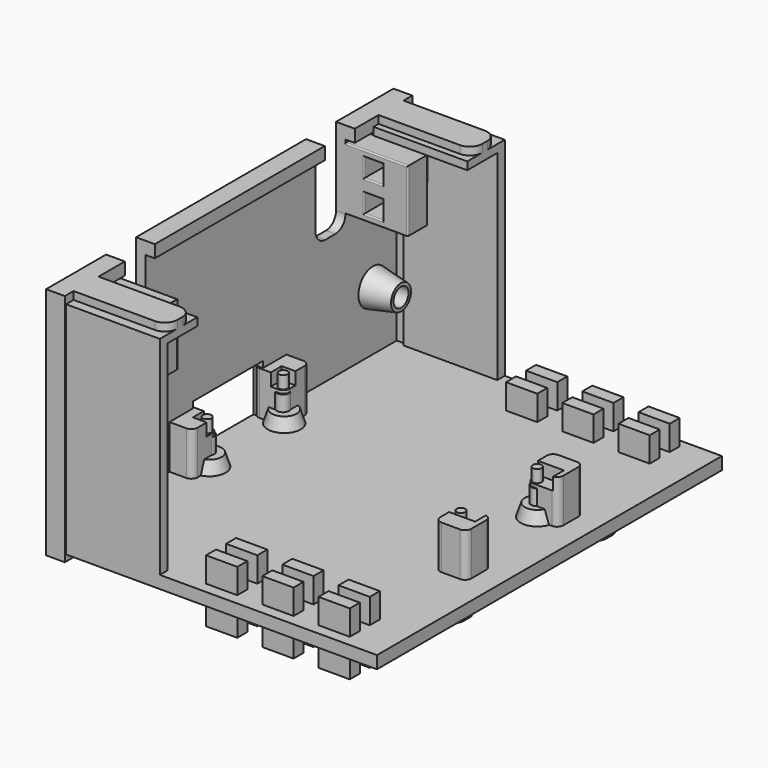
from build123d import *

# Parameters (mm, degrees)
BOX019_W               = 10
BOX019_H               = 5.45
BOX019_DEPTH           = 5
BOX019_PLACEMENT_ANGLE = 30
BOX018_W               = 5.45
BOX018_H               = 10
BOX018_DEPTH           = 5
BOX018_PLACEMENT_ANGLE = 120
BOX017_W               = 5.45
BOX017_H               = 10
BOX017_DEPTH           = 5
CYLINDER007_R          = 1
CYLINDER007_DEPTH      = 10
BOX022_W               = 10
BOX022_H               = 5.45
BOX022_DEPTH           = 5
BOX022_PLACEMENT_ANGLE = 30
BOX021_W               = 5.45
BOX021_H               = 10
BOX021_DEPTH           = 5
BOX021_PLACEMENT_ANGLE = 120
BOX020_W               = 5.45
BOX020_H               = 10
BOX020_DEPTH           = 5
CYLINDER008_R          = 1
CYLINDER008_DEPTH      = 10
BOX025_W               = 10
BOX025_H               = 5.45
BOX025_DEPTH           = 5
BOX025_PLACEMENT_ANGLE = 30
BOX024_W               = 5.45
BOX024_H               = 10
BOX024_DEPTH           = 5
BOX024_PLACEMENT_ANGLE = 120
BOX023_W               = 5.45
BOX023_H               = 10
BOX023_DEPTH           = 5
CYLINDER009_R          = 1
CYLINDER009_DEPTH      = 10
BOX016_W               = 10
BOX016_H               = 5.45
BOX016_DEPTH           = 5
BOX016_PLACEMENT_ANGLE = 30
BOX015_W               = 5.45
BOX015_H               = 10
BOX015_DEPTH           = 5
BOX015_PLACEMENT_ANGLE = 120
BOX014_W               = 5.45
BOX014_H               = 10
BOX014_DEPTH           = 5
CYLINDER006_R          = 1
CYLINDER006_DEPTH      = 10
BOX042_W               = 5
BOX042_H               = 2
BOX042_DEPTH           = 10
BOX043_W               = 5
BOX043_H               = 2
BOX043_DEPTH           = 10
BOX041_W               = 5
BOX041_H               = 2
BOX041_DEPTH           = 10
BOX045_W               = 5
BOX045_H               = 2
BOX045_DEPTH           = 10
BOX046_W               = 5
BOX046_H               = 2
BOX046_DEPTH           = 10
BOX044_W               = 5
BOX044_H               = 2
BOX044_DEPTH           = 10
BOX048_W               = 5
BOX048_H               = 2
BOX048_DEPTH           = 10
BOX049_W               = 5
BOX049_H               = 2
BOX049_DEPTH           = 10
BOX047_W               = 5
BOX047_H               = 2
BOX047_DEPTH           = 10
BOX039_W               = 5
BOX039_H               = 2
BOX039_DEPTH           = 10
BOX040_W               = 5
BOX040_H               = 2
BOX040_DEPTH           = 10
BOX038_W               = 5
BOX038_H               = 2
BOX038_DEPTH           = 10
BOX062_W               = 15
BOX062_H               = 7.5
BOX062_DEPTH           = 34
BOX063_W               = 15
BOX063_H               = 7.5
BOX063_DEPTH           = 34
BOX060_W               = 15
BOX060_H               = 7.5
BOX060_DEPTH           = 34.75
BOX061_W               = 15
BOX061_H               = 7.5
BOX061_DEPTH           = 34.75
BOX065_W               = 10
BOX065_H               = 6
BOX065_DEPTH           = 15
FILLET029_R            = 2
BOX064_W               = 10
BOX064_H               = 6
BOX064_DEPTH           = 15
FILLET028_R            = 2
BOX067_W               = 5
BOX067_H               = 5
BOX067_DEPTH           = 1.5
BOX068_W               = 5
BOX068_H               = 5
BOX068_DEPTH           = 1.5
BOX069_W               = 5
BOX069_H               = 5
BOX069_DEPTH           = 1.5
BOX070_W               = 5
BOX070_H               = 5
BOX070_DEPTH           = 1.5
BOX071_W               = 5
BOX071_H               = 5
BOX071_DEPTH           = 1.5
BOX066_W               = 5
BOX066_H               = 5
BOX066_DEPTH           = 1.5
BOX029_W               = 49
BOX029_H               = 5
BOX029_DEPTH           = 2
FILLET014_R            = 2
FILLET016_R            = 0.25
BOX030_W               = 49
BOX030_H               = 5
BOX030_DEPTH           = 2
FILLET017_R            = 2
FILLET018_R            = 0.25
BOX031_W               = 15
BOX031_H               = 5
BOX031_DEPTH           = 2
FILLET019_R            = 2
FILLET020_R            = 0.25
BOX028_W               = 15
BOX028_H               = 5
BOX028_DEPTH           = 2
FILLET_R               = 2
FILLET015_R            = 0.25
BOX027_W               = 10
BOX027_H               = 6
BOX027_DEPTH           = 15
FILLET013_R            = 2
BOX026_W               = 10
BOX026_H               = 6
BOX026_DEPTH           = 15
FILLET012_R            = 2
BOX005_W               = 15
BOX005_H               = 7.5
BOX005_DEPTH           = 34
BOX006_W               = 15
BOX006_H               = 7.5
BOX006_DEPTH           = 34
BOX003_W               = 15
BOX003_H               = 7.5
BOX003_DEPTH           = 34.75
BOX004_W               = 15
BOX004_H               = 7.5
BOX004_DEPTH           = 34.75
BOX051_W               = 5
BOX051_H               = 5
BOX051_DEPTH           = 1.5
BOX052_W               = 5
BOX052_H               = 5
BOX052_DEPTH           = 1.5
BOX053_W               = 5
BOX053_H               = 5
BOX053_DEPTH           = 1.5
BOX054_W               = 5
BOX054_H               = 5
BOX054_DEPTH           = 1.5
BOX055_W               = 5
BOX055_H               = 5
BOX055_DEPTH           = 1.5
BOX050_W               = 5
BOX050_H               = 5
BOX050_DEPTH           = 1.5
BOX037_W               = 3
BOX037_H               = 10
BOX037_DEPTH           = 3
BOX036_W               = 3
BOX036_H               = 10
BOX036_DEPTH           = 3
BOX035_W               = 10
BOX035_H               = 4
BOX035_DEPTH           = 10
FILLET023_R            = 0.2
BOX034_W               = 3
BOX034_H               = 10
BOX034_DEPTH           = 3
BOX033_W               = 3
BOX033_H               = 10
BOX033_DEPTH           = 3
BOX032_W               = 10
BOX032_H               = 4
BOX032_DEPTH           = 10
FILLET022_R            = 0.2
CYLINDER001_R          = 0.7
CYLINDER001_DEPTH      = 10
CYLINDER002_R          = 0.7
CYLINDER002_DEPTH      = 10
CYLINDER003_R          = 0.7
CYLINDER003_DEPTH      = 10
CYLINDER_R             = 0.7
CYLINDER_DEPTH         = 10
BOX_W                  = 45.16
BOX_H                  = 17.76
BOX_DEPTH              = 10
BOX057_W               = 5
BOX057_H               = 5
BOX057_DEPTH           = 7
FILLET025_R            = 1
BOX058_W               = 5
BOX058_H               = 5
BOX058_DEPTH           = 7
FILLET026_R            = 1
BOX059_W               = 5
BOX059_H               = 5
BOX059_DEPTH           = 7
FILLET027_R            = 1
BOX056_W               = 5
BOX056_H               = 5
BOX056_DEPTH           = 7
FILLET024_R            = 1
BOX002_W               = 50
BOX002_H               = 69
BOX002_DEPTH           = 2
BOX008_W               = 10
BOX008_H               = 14
BOX008_DEPTH           = 8
CYLINDER005_R          = 1.5
CYLINDER005_DEPTH      = 10
CYLINDER004_R          = 1.5
CYLINDER004_DEPTH      = 10
BOX007_W               = 3.5
BOX007_H               = 66.5
BOX007_DEPTH           = 32.5
BOX001_W               = 3
BOX001_H               = 69.5
BOX001_DEPTH           = 37.5


with BuildPart() as cone002:
    # Cone002 → Cone002 (revolve)
    with BuildSketch(Plane(origin=(42, 27, 2), x_dir=(1, 0, 0), z_dir=(0, -1, 0))):
        Polygon((0, 0), (3, 0), (2, 3), (0, 3), align=None)
    revolve(axis=Axis((42, 27, 2), (0, 0, 1)))


with BuildPart() as cone003:
    # Cone003 → Cone003 (revolve)
    with BuildSketch(Plane(origin=(42, 42, 2), x_dir=(1, 0, 0), z_dir=(0, -1, 0))):
        Polygon((0, 0), (3, 0), (2, 3), (0, 3), align=None)
    revolve(axis=Axis((42, 42, 2), (0, 0, 1)))


with BuildPart() as cone004:
    # Cone004 → Cone004 (revolve)
    with BuildSketch(Plane(origin=(1.5, 42, 2), x_dir=(1, 0, 0), z_dir=(0, -1, 0))):
        Polygon((0, 0), (3, 0), (2, 3), (0, 3), align=None)
    revolve(axis=Axis((1.5, 42, 2), (0, 0, 1)))


with BuildPart() as cone005:
    # Cone005 → Cone005 (revolve)
    with BuildSketch(Plane(origin=(1.5, 27, 2), x_dir=(1, 0, 0), z_dir=(0, -1, 0))):
        Polygon((0, 0), (3, 0), (2, 3), (0, 3), align=None)
    revolve(axis=Axis((1.5, 27, 2), (0, 0, 1)))


with BuildPart() as cube019:
    # Box019 → Box019 (new body)
    with BuildSketch(Plane.XY):
        with Locations((5, 2.725)):
            Rectangle(BOX019_W, BOX019_H)
    extrude(amount=BOX019_DEPTH)


with BuildPart() as cube019_1:
    # Box019 placement: moved
    add(cube019.part.moved(Location((0.55, 4, 0))).rotate(Axis((0.55, 4, 0), (0, 0, -1)), BOX019_PLACEMENT_ANGLE))


with BuildPart() as cube018:
    # Box018 → Box018 (new body)
    with BuildSketch(Plane.XY):
        with Locations((2.725, 5)):
            Rectangle(BOX018_W, BOX018_H)
    extrude(amount=BOX018_DEPTH)


with BuildPart() as cube018_1:
    # Box018 placement: moved
    add(cube018.part.moved(Location((11.5, 4, 0))).rotate(Axis((11.5, 4, 0), (0, 0, 1)), BOX018_PLACEMENT_ANGLE))


with BuildPart() as m_25_nut001:
    # Box017 → Box017 (new body)
    with BuildSketch(Plane(origin=(3.25, 0, 0), x_dir=(1, 0, 0), z_dir=(0, 0, 1))):
        with Locations((2.725, 5)):
            Rectangle(BOX017_W, BOX017_H)
    extrude(amount=BOX017_DEPTH)

    # Common001: intersect Cube019, Cube018
    add(cube019_1.part, mode=Mode.INTERSECT)
    add(cube018_1.part, mode=Mode.INTERSECT)


with BuildPart() as m_25_nut001_1:
    # Common001 placement: moved
    add(m_25_nut001.part.moved(Location((-2, 0, -1))))


with BuildPart() as screw_hole001:
    # Cylinder007 → Cylinder007 (new body)
    with BuildSketch(Plane(origin=(4, 4, -1), x_dir=(1, 0, 0), z_dir=(0, 0, 1))):
        Circle(CYLINDER007_R)
    extrude(amount=CYLINDER007_DEPTH)

    # Fusion009: union M.25 nut001
    add(m_25_nut001_1.part)


with BuildPart() as screw_hole001_1:
    # Fusion009 placement: moved
    add(screw_hole001.part.moved(Location((-2.7, 38, 0))))


with BuildPart() as cube022:
    # Box022 → Box022 (new body)
    with BuildSketch(Plane.XY):
        with Locations((5, 2.725)):
            Rectangle(BOX022_W, BOX022_H)
    extrude(amount=BOX022_DEPTH)


with BuildPart() as cube022_1:
    # Box022 placement: moved
    add(cube022.part.moved(Location((0.55, 4, 0))).rotate(Axis((0.55, 4, 0), (0, 0, -1)), BOX022_PLACEMENT_ANGLE))


with BuildPart() as cube021:
    # Box021 → Box021 (new body)
    with BuildSketch(Plane.XY):
        with Locations((2.725, 5)):
            Rectangle(BOX021_W, BOX021_H)
    extrude(amount=BOX021_DEPTH)


with BuildPart() as cube021_1:
    # Box021 placement: moved
    add(cube021.part.moved(Location((11.5, 4, 0))).rotate(Axis((11.5, 4, 0), (0, 0, 1)), BOX021_PLACEMENT_ANGLE))


with BuildPart() as m_25_nut002:
    # Box020 → Box020 (new body)
    with BuildSketch(Plane(origin=(3.25, 0, 0), x_dir=(1, 0, 0), z_dir=(0, 0, 1))):
        with Locations((2.725, 5)):
            Rectangle(BOX020_W, BOX020_H)
    extrude(amount=BOX020_DEPTH)

    # Common002: intersect Cube022, Cube021
    add(cube022_1.part, mode=Mode.INTERSECT)
    add(cube021_1.part, mode=Mode.INTERSECT)


with BuildPart() as m_25_nut002_1:
    # Common002 placement: moved
    add(m_25_nut002.part.moved(Location((-2, 0, -1))))


with BuildPart() as screw_hole002:
    # Cylinder008 → Cylinder008 (new body)
    with BuildSketch(Plane(origin=(4, 4, -1), x_dir=(1, 0, 0), z_dir=(0, 0, 1))):
        Circle(CYLINDER008_R)
    extrude(amount=CYLINDER008_DEPTH)

    # Fusion010: union M.25 nut002
    add(m_25_nut002_1.part)


with BuildPart() as screw_hole002_1:
    # Fusion010 placement: moved
    add(screw_hole002.part.moved(Location((38, 23, 0))))


with BuildPart() as cube025:
    # Box025 → Box025 (new body)
    with BuildSketch(Plane.XY):
        with Locations((5, 2.725)):
            Rectangle(BOX025_W, BOX025_H)
    extrude(amount=BOX025_DEPTH)


with BuildPart() as cube025_1:
    # Box025 placement: moved
    add(cube025.part.moved(Location((0.55, 4, 0))).rotate(Axis((0.55, 4, 0), (0, 0, -1)), BOX025_PLACEMENT_ANGLE))


with BuildPart() as cube024:
    # Box024 → Box024 (new body)
    with BuildSketch(Plane.XY):
        with Locations((2.725, 5)):
            Rectangle(BOX024_W, BOX024_H)
    extrude(amount=BOX024_DEPTH)


with BuildPart() as cube024_1:
    # Box024 placement: moved
    add(cube024.part.moved(Location((11.5, 4, 0))).rotate(Axis((11.5, 4, 0), (0, 0, 1)), BOX024_PLACEMENT_ANGLE))


with BuildPart() as m_25_nut003:
    # Box023 → Box023 (new body)
    with BuildSketch(Plane(origin=(3.25, 0, 0), x_dir=(1, 0, 0), z_dir=(0, 0, 1))):
        with Locations((2.725, 5)):
            Rectangle(BOX023_W, BOX023_H)
    extrude(amount=BOX023_DEPTH)

    # Common003: intersect Cube025, Cube024
    add(cube025_1.part, mode=Mode.INTERSECT)
    add(cube024_1.part, mode=Mode.INTERSECT)


with BuildPart() as m_25_nut003_1:
    # Common003 placement: moved
    add(m_25_nut003.part.moved(Location((-2, 0, -1))))


with BuildPart() as screw_hole003:
    # Cylinder009 → Cylinder009 (new body)
    with BuildSketch(Plane(origin=(4, 4, -1), x_dir=(1, 0, 0), z_dir=(0, 0, 1))):
        Circle(CYLINDER009_R)
    extrude(amount=CYLINDER009_DEPTH)

    # Fusion011: union M.25 nut003
    add(m_25_nut003_1.part)


with BuildPart() as screw_hole003_1:
    # Fusion011 placement: moved
    add(screw_hole003.part.moved(Location((38, 38, 0))))


with BuildPart() as cube016:
    # Box016 → Box016 (new body)
    with BuildSketch(Plane.XY):
        with Locations((5, 2.725)):
            Rectangle(BOX016_W, BOX016_H)
    extrude(amount=BOX016_DEPTH)


with BuildPart() as cube016_1:
    # Box016 placement: moved
    add(cube016.part.moved(Location((0.55, 4, 0))).rotate(Axis((0.55, 4, 0), (0, 0, -1)), BOX016_PLACEMENT_ANGLE))


with BuildPart() as cube015:
    # Box015 → Box015 (new body)
    with BuildSketch(Plane.XY):
        with Locations((2.725, 5)):
            Rectangle(BOX015_W, BOX015_H)
    extrude(amount=BOX015_DEPTH)


with BuildPart() as cube015_1:
    # Box015 placement: moved
    add(cube015.part.moved(Location((11.5, 4, 0))).rotate(Axis((11.5, 4, 0), (0, 0, 1)), BOX015_PLACEMENT_ANGLE))


with BuildPart() as m_25_nut:
    # Box014 → Box014 (new body)
    with BuildSketch(Plane(origin=(3.25, 0, 0), x_dir=(1, 0, 0), z_dir=(0, 0, 1))):
        with Locations((2.725, 5)):
            Rectangle(BOX014_W, BOX014_H)
    extrude(amount=BOX014_DEPTH)

    # Common: intersect Cube016, Cube015
    add(cube016_1.part, mode=Mode.INTERSECT)
    add(cube015_1.part, mode=Mode.INTERSECT)


with BuildPart() as m_25_nut_1:
    # Common placement: moved
    add(m_25_nut.part.moved(Location((-2, 0, -1))))


with BuildPart() as screw_holes_cut:
    # Cylinder006 → Cylinder006 (new body)
    with BuildSketch(Plane(origin=(4, 4, -1), x_dir=(1, 0, 0), z_dir=(0, 0, 1))):
        Circle(CYLINDER006_R)
    extrude(amount=CYLINDER006_DEPTH)

    # Fusion008: union M.25 nut
    add(m_25_nut_1.part)


with BuildPart() as screw_holes_cut_1:
    # Fusion008 placement: moved
    add(screw_holes_cut.part.moved(Location((-2.7, 23, 0))))

    # Fusion012: union screw_hole001, screw_hole002, screw_hole003
    add(screw_hole001_1.part)
    add(screw_hole002_1.part)
    add(screw_hole003_1.part)


with BuildPart() as screw_holes_cut_2:
    # Fusion012 placement: moved
    add(screw_holes_cut_1.part.moved(Location((0, 0, -1.5))))


with BuildPart() as cube042:
    # Box042 → Box042 (new body)
    with BuildSketch(Plane(origin=(30, 2, -3), x_dir=(1, 0, 0), z_dir=(0, 0, 1))):
        with Locations((2.5, 1)):
            Rectangle(BOX042_W, BOX042_H)
    extrude(amount=BOX042_DEPTH)


with BuildPart() as cube043:
    # Box043 → Box043 (new body)
    with BuildSketch(Plane(origin=(39, 2, -3), x_dir=(1, 0, 0), z_dir=(0, 0, 1))):
        with Locations((2.5, 1)):
            Rectangle(BOX043_W, BOX043_H)
    extrude(amount=BOX043_DEPTH)


with BuildPart() as zip_ties_holes_board_l:
    # Box041 → Box041 (new body)
    with BuildSketch(Plane(origin=(21, 2, -3), x_dir=(1, 0, 0), z_dir=(0, 0, 1))):
        with Locations((2.5, 1)):
            Rectangle(BOX041_W, BOX041_H)
    extrude(amount=BOX041_DEPTH)

    # Fusion023: union Cube042, Cube043
    add(cube042.part)
    add(cube043.part)


with BuildPart() as zip_ties_holes_board_l_1:
    # Fusion023 placement: moved
    add(zip_ties_holes_board_l.part.moved(Location((0, 64, 0))))


with BuildPart() as cube045:
    # Box045 → Box045 (new body)
    with BuildSketch(Plane(origin=(30, 2, -3), x_dir=(1, 0, 0), z_dir=(0, 0, 1))):
        with Locations((2.5, 1)):
            Rectangle(BOX045_W, BOX045_H)
    extrude(amount=BOX045_DEPTH)


with BuildPart() as cube046:
    # Box046 → Box046 (new body)
    with BuildSketch(Plane(origin=(39, 2, -3), x_dir=(1, 0, 0), z_dir=(0, 0, 1))):
        with Locations((2.5, 1)):
            Rectangle(BOX046_W, BOX046_H)
    extrude(amount=BOX046_DEPTH)


with BuildPart() as zip_ties_holes_board_r001:
    # Box044 → Box044 (new body)
    with BuildSketch(Plane(origin=(21, 2, -3), x_dir=(1, 0, 0), z_dir=(0, 0, 1))):
        with Locations((2.5, 1)):
            Rectangle(BOX044_W, BOX044_H)
    extrude(amount=BOX044_DEPTH)

    # Fusion024: union Cube045, Cube046
    add(cube045.part)
    add(cube046.part)


with BuildPart() as zip_ties_holes_board_r001_1:
    # Fusion024 placement: moved
    add(zip_ties_holes_board_r001.part.moved(Location((0, 4, 0))))


with BuildPart() as cube048:
    # Box048 → Box048 (new body)
    with BuildSketch(Plane(origin=(30, 2, -3), x_dir=(1, 0, 0), z_dir=(0, 0, 1))):
        with Locations((2.5, 1)):
            Rectangle(BOX048_W, BOX048_H)
    extrude(amount=BOX048_DEPTH)


with BuildPart() as cube049:
    # Box049 → Box049 (new body)
    with BuildSketch(Plane(origin=(39, 2, -3), x_dir=(1, 0, 0), z_dir=(0, 0, 1))):
        with Locations((2.5, 1)):
            Rectangle(BOX049_W, BOX049_H)
    extrude(amount=BOX049_DEPTH)


with BuildPart() as zip_ties_holes_board_l001:
    # Box047 → Box047 (new body)
    with BuildSketch(Plane(origin=(21, 2, -3), x_dir=(1, 0, 0), z_dir=(0, 0, 1))):
        with Locations((2.5, 1)):
            Rectangle(BOX047_W, BOX047_H)
    extrude(amount=BOX047_DEPTH)

    # Fusion025: union Cube048, Cube049
    add(cube048.part)
    add(cube049.part)


with BuildPart() as zip_ties_holes_board_l001_1:
    # Fusion025 placement: moved
    add(zip_ties_holes_board_l001.part.moved(Location((0, 60, 0))))


with BuildPart() as cube039:
    # Box039 → Box039 (new body)
    with BuildSketch(Plane(origin=(30, 2, -3), x_dir=(1, 0, 0), z_dir=(0, 0, 1))):
        with Locations((2.5, 1)):
            Rectangle(BOX039_W, BOX039_H)
    extrude(amount=BOX039_DEPTH)


with BuildPart() as cube040:
    # Box040 → Box040 (new body)
    with BuildSketch(Plane(origin=(39, 2, -3), x_dir=(1, 0, 0), z_dir=(0, 0, 1))):
        with Locations((2.5, 1)):
            Rectangle(BOX040_W, BOX040_H)
    extrude(amount=BOX040_DEPTH)


with BuildPart() as zip_ties_holes:
    # Box038 → Box038 (new body)
    with BuildSketch(Plane(origin=(21, 2, -3), x_dir=(1, 0, 0), z_dir=(0, 0, 1))):
        with Locations((2.5, 1)):
            Rectangle(BOX038_W, BOX038_H)
    extrude(amount=BOX038_DEPTH)

    # Fusion022: union Cube039, Cube040
    add(cube039.part)
    add(cube040.part)

    # Fusion026: union zip ties holes board l, zip ties holes board r001, zip ties holes board l001
    add(zip_ties_holes_board_l_1.part)
    add(zip_ties_holes_board_r001_1.part)
    add(zip_ties_holes_board_l001_1.part)


with BuildPart() as cube062:
    # Box062 → Box062 (new body)
    with BuildSketch(Plane(origin=(0, 1.5, 1), x_dir=(1, 0, 0), z_dir=(0, 0, 1))):
        with Locations((7.5, 3.75)):
            Rectangle(BOX062_W, BOX062_H)
    extrude(amount=BOX062_DEPTH)


with BuildPart() as fusion030:
    # Box063 → Box063 (new body)
    with BuildSketch(Plane(origin=(0, 60.5, 1), x_dir=(1, 0, 0), z_dir=(0, 0, 1))):
        with Locations((7.5, 3.75)):
            Rectangle(BOX063_W, BOX063_H)
    extrude(amount=BOX063_DEPTH)

    # Fusion030: union Cube062
    add(cube062.part)


with BuildPart() as cube060:
    # Box060 → Box060 (new body)
    with BuildSketch(Plane.XY.offset(2)):
        with Locations((7.5, 3.75)):
            Rectangle(BOX060_W, BOX060_H)
    extrude(amount=BOX060_DEPTH)


with BuildPart() as cut012:
    # Box061 → Box061 (new body)
    with BuildSketch(Plane(origin=(0, 61.5, 2), x_dir=(1, 0, 0), z_dir=(0, 0, 1))):
        with Locations((7.5, 3.75)):
            Rectangle(BOX061_W, BOX061_H)
    extrude(amount=BOX061_DEPTH)

    # Fusion031: union Cube060
    add(cube060.part)


with BuildPart() as cut012_1:
    # Fusion031 placement: moved
    add(cut012.part.moved(Location((0, 0, -0.5))))

    # Cut012: cut Fusion030
    add(fusion030.part, mode=Mode.SUBTRACT)


with BuildPart() as cut012_2:
    # Cut012 placement: moved
    add(cut012_1.part.moved(Location((0, 0.25, 0))))


with BuildPart() as fillet029:
    # Box065 → Box065 (new body)
    with BuildSketch(Plane.XY.offset(16)):
        with Locations((5, 3)):
            Rectangle(BOX065_W, BOX065_H)
    extrude(amount=BOX065_DEPTH)

    # Fillet029
    fillet029_edges = [fillet029.edges().sort_by_distance(p)[0] for p in [
        (5, 0, 16),
        (5, 6, 16),
    ]]
    fillet(fillet029_edges, radius=FILLET029_R)


with BuildPart() as fillet029_1:
    # Fillet029 placement: moved
    add(fillet029.part.moved(Location((-4, 52, 7))))


with BuildPart() as cables_sockets001:
    # Box064 → Box064 (new body)
    with BuildSketch(Plane.XY.offset(16)):
        with Locations((5, 3)):
            Rectangle(BOX064_W, BOX064_H)
    extrude(amount=BOX064_DEPTH)

    # Fillet028
    fillet028_edges = [cables_sockets001.edges().sort_by_distance(p)[0] for p in [
        (5, 0, 16),
        (5, 6, 16),
    ]]
    fillet(fillet028_edges, radius=FILLET028_R)


with BuildPart() as cables_sockets001_1:
    # Fillet028 placement: moved
    add(cables_sockets001.part.moved(Location((-4, 12, 7))))

    # Fusion032: union Fillet029
    add(fillet029_1.part)


with BuildPart() as cube067:
    # Box067 → Box067 (new body)
    with BuildSketch(Plane(origin=(30, 3, 0), x_dir=(1, 0, 0), z_dir=(0, 0, 1))):
        with Locations((2.5, 2.5)):
            Rectangle(BOX067_W, BOX067_H)
    extrude(amount=BOX067_DEPTH)


with BuildPart() as cube068:
    # Box068 → Box068 (new body)
    with BuildSketch(Plane(origin=(39, 3, 0), x_dir=(1, 0, 0), z_dir=(0, 0, 1))):
        with Locations((2.5, 2.5)):
            Rectangle(BOX068_W, BOX068_H)
    extrude(amount=BOX068_DEPTH)


with BuildPart() as cube069:
    # Box069 → Box069 (new body)
    with BuildSketch(Plane(origin=(39, 63, 0), x_dir=(1, 0, 0), z_dir=(0, 0, 1))):
        with Locations((2.5, 2.5)):
            Rectangle(BOX069_W, BOX069_H)
    extrude(amount=BOX069_DEPTH)


with BuildPart() as cube070:
    # Box070 → Box070 (new body)
    with BuildSketch(Plane(origin=(30, 63, 0), x_dir=(1, 0, 0), z_dir=(0, 0, 1))):
        with Locations((2.5, 2.5)):
            Rectangle(BOX070_W, BOX070_H)
    extrude(amount=BOX070_DEPTH)


with BuildPart() as cube071:
    # Box071 → Box071 (new body)
    with BuildSketch(Plane(origin=(21, 63, 0), x_dir=(1, 0, 0), z_dir=(0, 0, 1))):
        with Locations((2.5, 2.5)):
            Rectangle(BOX071_W, BOX071_H)
    extrude(amount=BOX071_DEPTH)


with BuildPart() as fusion035:
    # Box066 → Box066 (new body)
    with BuildSketch(Plane(origin=(21, 3, 0), x_dir=(1, 0, 0), z_dir=(0, 0, 1))):
        with Locations((2.5, 2.5)):
            Rectangle(BOX066_W, BOX066_H)
    extrude(amount=BOX066_DEPTH)

    # Fusion034: union Cube067, Cube068, Cube069, Cube070, Cube071
    add(cube067.part)
    add(cube068.part)
    add(cube069.part)
    add(cube070.part)
    add(cube071.part)

    # Fusion035: union Cables sockets001
    add(cables_sockets001_1.part)


with BuildPart() as fillet016:
    # Box029 → Box029 (new body)
    with BuildSketch(Plane.XY):
        with Locations((24.5, 2.5)):
            Rectangle(BOX029_W, BOX029_H)
    extrude(amount=BOX029_DEPTH)

    # Fillet014
    fillet014_edges = [fillet016.edges().sort_by_distance(p)[0] for p in [
        (49, 0, 1),
        (49, 5, 1),
    ]]
    fillet(fillet014_edges, radius=FILLET014_R)


with BuildPart() as fillet016_1:
    # Fillet014 placement: moved
    add(fillet016.part.moved(Location((0, 45, 0))))

    # Fillet016
    fillet016_edges = [fillet016_1.edges().sort_by_distance(p)[0] for p in [
        (23.5, 50, 0),
        (23.5, 45, 0),
    ]]
    fillet(fillet016_edges, radius=FILLET016_R)


with BuildPart() as fillet016_2:
    # Fillet016 placement: moved
    add(fillet016_1.part.moved(Location((0, 0.25, 0))))


with BuildPart() as fillet018:
    # Box030 → Box030 (new body)
    with BuildSketch(Plane.XY):
        with Locations((24.5, 2.5)):
            Rectangle(BOX030_W, BOX030_H)
    extrude(amount=BOX030_DEPTH)

    # Fillet017
    fillet017_edges = [fillet018.edges().sort_by_distance(p)[0] for p in [
        (49, 0, 1),
        (49, 5, 1),
    ]]
    fillet(fillet017_edges, radius=FILLET017_R)


with BuildPart() as fillet018_1:
    # Fillet017 placement: moved
    add(fillet018.part.moved(Location((0, 17, 0))))

    # Fillet018
    fillet018_edges = [fillet018_1.edges().sort_by_distance(p)[0] for p in [
        (23.5, 22, 0),
        (23.5, 17, 0),
    ]]
    fillet(fillet018_edges, radius=FILLET018_R)


with BuildPart() as fillet018_2:
    # Fillet018 placement: moved
    add(fillet018_1.part.moved(Location((0, -0.25, 0))))


with BuildPart() as fillet020:
    # Box031 → Box031 (new body)
    with BuildSketch(Plane(origin=(0, -15.25, 0), x_dir=(1, 0, 0), z_dir=(0, 0, 1))):
        with Locations((7.5, 2.5)):
            Rectangle(BOX031_W, BOX031_H)
    extrude(amount=BOX031_DEPTH)

    # Fillet019
    fillet019_edges = [fillet020.edges().sort_by_distance(p)[0] for p in [
        (15, -15.25, 1),
        (15, -10.25, 1),
    ]]
    fillet(fillet019_edges, radius=FILLET019_R)


with BuildPart() as fillet020_1:
    # Fillet019 placement: moved
    add(fillet020.part.moved(Location((0, 17, 0))))

    # Fillet020
    fillet020_edges = [fillet020_1.edges().sort_by_distance(p)[0] for p in [
        (6.5, 6.75, 0),
        (6.5, 1.75, 0),
    ]]
    fillet(fillet020_edges, radius=FILLET020_R)


with BuildPart() as fillet020_2:
    # Fillet020 placement: moved
    add(fillet020_1.part.moved(Location((0, 61, 35.5))))


with BuildPart() as rails:
    # Box028 → Box028 (new body)
    with BuildSketch(Plane(origin=(0, -15.5, 0), x_dir=(1, 0, 0), z_dir=(0, 0, 1))):
        with Locations((7.5, 2.5)):
            Rectangle(BOX028_W, BOX028_H)
    extrude(amount=BOX028_DEPTH)

    # Fillet
    fillet_edges = [rails.edges().sort_by_distance(p)[0] for p in [
        (15, -15.5, 1),
        (15, -10.5, 1),
    ]]
    fillet(fillet_edges, radius=FILLET_R)


with BuildPart() as rails_1:
    # Fillet placement: moved
    add(rails.part.moved(Location((0, 17, 0))))

    # Fillet015
    fillet015_edges = [rails_1.edges().sort_by_distance(p)[0] for p in [
        (6.5, 6.5, 0),
        (6.5, 1.5, 0),
    ]]
    fillet(fillet015_edges, radius=FILLET015_R)


with BuildPart() as rails_2:
    # Fillet015 placement: moved
    add(rails_1.part.moved(Location((0, 0.25, 35.5))))

    # Fusion017: union Fillet016, Fillet018, Fillet020
    add(fillet016_2.part)
    add(fillet018_2.part)
    add(fillet020_2.part)


with BuildPart() as fillet013:
    # Box027 → Box027 (new body)
    with BuildSketch(Plane.XY.offset(16)):
        with Locations((5, 3)):
            Rectangle(BOX027_W, BOX027_H)
    extrude(amount=BOX027_DEPTH)

    # Fillet013
    fillet013_edges = [fillet013.edges().sort_by_distance(p)[0] for p in [
        (5, 0, 16),
        (5, 6, 16),
    ]]
    fillet(fillet013_edges, radius=FILLET013_R)


with BuildPart() as fillet013_1:
    # Fillet013 placement: moved
    add(fillet013.part.moved(Location((-4, 52, 7))))


with BuildPart() as cables_sockets:
    # Box026 → Box026 (new body)
    with BuildSketch(Plane.XY.offset(16)):
        with Locations((5, 3)):
            Rectangle(BOX026_W, BOX026_H)
    extrude(amount=BOX026_DEPTH)

    # Fillet012
    fillet012_edges = [cables_sockets.edges().sort_by_distance(p)[0] for p in [
        (5, 0, 16),
        (5, 6, 16),
    ]]
    fillet(fillet012_edges, radius=FILLET012_R)


with BuildPart() as cables_sockets_1:
    # Fillet012 placement: moved
    add(cables_sockets.part.moved(Location((-4, 12, 7))))

    # Fusion016: union Fillet013
    add(fillet013_1.part)


with BuildPart() as cube004:
    # Box005 → Box005 (new body)
    with BuildSketch(Plane(origin=(0, 1.5, 1), x_dir=(1, 0, 0), z_dir=(0, 0, 1))):
        with Locations((7.5, 3.75)):
            Rectangle(BOX005_W, BOX005_H)
    extrude(amount=BOX005_DEPTH)


with BuildPart() as fusion001:
    # Box006 → Box006 (new body)
    with BuildSketch(Plane(origin=(0, 60, 1), x_dir=(1, 0, 0), z_dir=(0, 0, 1))):
        with Locations((7.5, 3.75)):
            Rectangle(BOX006_W, BOX006_H)
    extrude(amount=BOX006_DEPTH)

    # Fusion001: union Cube004
    add(cube004.part)


with BuildPart() as cube002:
    # Box003 → Box003 (new body)
    with BuildSketch(Plane.XY.offset(2)):
        with Locations((7.5, 3.75)):
            Rectangle(BOX003_W, BOX003_H)
    extrude(amount=BOX003_DEPTH)


with BuildPart() as arduino_tray_rough:
    # Box004 → Box004 (new body)
    with BuildSketch(Plane(origin=(0, 61.5, 2), x_dir=(1, 0, 0), z_dir=(0, 0, 1))):
        with Locations((7.5, 3.75)):
            Rectangle(BOX004_W, BOX004_H)
    extrude(amount=BOX004_DEPTH)

    # Fusion002: union Cube002
    add(cube002.part)


with BuildPart() as arduino_tray_rough_1:
    # Fusion002 placement: moved
    add(arduino_tray_rough.part.moved(Location((0, 0, -0.5))))

    # Cut001: cut Fusion001
    add(fusion001.part, mode=Mode.SUBTRACT)


with BuildPart() as arduino_tray_rough_2:
    # Cut001 placement: moved
    add(arduino_tray_rough_1.part.moved(Location((0, 0.25, 0))))

    # Cut006: cut Cables sockets
    add(cables_sockets_1.part, mode=Mode.SUBTRACT)

    # Fusion018: union rails
    add(rails_2.part)


with BuildPart() as cube051:
    # Box051 → Box051 (new body)
    with BuildSketch(Plane(origin=(30, 3, 0), x_dir=(1, 0, 0), z_dir=(0, 0, 1))):
        with Locations((2.5, 2.5)):
            Rectangle(BOX051_W, BOX051_H)
    extrude(amount=BOX051_DEPTH)


with BuildPart() as cube052:
    # Box052 → Box052 (new body)
    with BuildSketch(Plane(origin=(39, 3, 0), x_dir=(1, 0, 0), z_dir=(0, 0, 1))):
        with Locations((2.5, 2.5)):
            Rectangle(BOX052_W, BOX052_H)
    extrude(amount=BOX052_DEPTH)


with BuildPart() as cube053:
    # Box053 → Box053 (new body)
    with BuildSketch(Plane(origin=(39, 63, 0), x_dir=(1, 0, 0), z_dir=(0, 0, 1))):
        with Locations((2.5, 2.5)):
            Rectangle(BOX053_W, BOX053_H)
    extrude(amount=BOX053_DEPTH)


with BuildPart() as cube054:
    # Box054 → Box054 (new body)
    with BuildSketch(Plane(origin=(30, 63, 0), x_dir=(1, 0, 0), z_dir=(0, 0, 1))):
        with Locations((2.5, 2.5)):
            Rectangle(BOX054_W, BOX054_H)
    extrude(amount=BOX054_DEPTH)


with BuildPart() as cube055:
    # Box055 → Box055 (new body)
    with BuildSketch(Plane(origin=(21, 63, 0), x_dir=(1, 0, 0), z_dir=(0, 0, 1))):
        with Locations((2.5, 2.5)):
            Rectangle(BOX055_W, BOX055_H)
    extrude(amount=BOX055_DEPTH)


with BuildPart() as fusion028:
    # Box050 → Box050 (new body)
    with BuildSketch(Plane(origin=(21, 3, 0), x_dir=(1, 0, 0), z_dir=(0, 0, 1))):
        with Locations((2.5, 2.5)):
            Rectangle(BOX050_W, BOX050_H)
    extrude(amount=BOX050_DEPTH)

    # Fusion028: union Cube051, Cube052, Cube053, Cube054, Cube055
    add(cube051.part)
    add(cube052.part)
    add(cube053.part)
    add(cube054.part)
    add(cube055.part)


with BuildPart() as cube037:
    # Box037 → Box037 (new body)
    with BuildSketch(Plane(origin=(3, 10, 32), x_dir=(1, 0, 0), z_dir=(0, 0, 1))):
        with Locations((1.5, 5)):
            Rectangle(BOX037_W, BOX037_H)
    extrude(amount=BOX037_DEPTH)


with BuildPart() as fusion020:
    # Box036 → Box036 (new body)
    with BuildSketch(Plane(origin=(3, 10, 27), x_dir=(1, 0, 0), z_dir=(0, 0, 1))):
        with Locations((1.5, 5)):
            Rectangle(BOX036_W, BOX036_H)
    extrude(amount=BOX036_DEPTH)

    # Fusion020: union Cube037
    add(cube037.part)


with BuildPart() as zip_ties_holder001:
    # Box035 → Box035 (new body)
    with BuildSketch(Plane(origin=(0, 10, 26), x_dir=(1, 0, 0), z_dir=(0, 0, 1))):
        with Locations((5, 2)):
            Rectangle(BOX035_W, BOX035_H)
    extrude(amount=BOX035_DEPTH)

    # Cut008: cut Fusion020
    add(fusion020.part, mode=Mode.SUBTRACT)

    # Fillet023
    fillet023_edges = [zip_ties_holder001.edges().sort_by_distance(p)[0] for p in [
        (5, 10, 26),
        (10, 10, 31),
        (5, 10, 36),
        (4.5, 10, 30),
        (6, 10, 28.5),
        (4.5, 10, 27),
        (3, 10, 28.5),
        (4.5, 10, 35),
        (6, 10, 33.5),
        (4.5, 10, 32),
        (3, 10, 33.5),
        (5, 14, 36),
        (10, 14, 31),
        (4.5, 14, 30),
        (6, 14, 28.5),
        (4.5, 14, 27),
        (3, 14, 28.5),
        (4.5, 14, 35),
        (6, 14, 33.5),
        (4.5, 14, 32),
        (3, 14, 33.5),
        (10, 12, 26),
    ]]
    fillet(fillet023_edges, radius=FILLET023_R)


with BuildPart() as zip_ties_holder001_1:
    # Fillet023 placement: moved
    add(zip_ties_holder001.part.moved(Location((-1, 48, -1))))


with BuildPart() as cube034:
    # Box034 → Box034 (new body)
    with BuildSketch(Plane(origin=(3, 5, 32), x_dir=(1, 0, 0), z_dir=(0, 0, 1))):
        with Locations((1.5, 5)):
            Rectangle(BOX034_W, BOX034_H)
    extrude(amount=BOX034_DEPTH)


with BuildPart() as fusion019:
    # Box033 → Box033 (new body)
    with BuildSketch(Plane(origin=(3, 5, 27), x_dir=(1, 0, 0), z_dir=(0, 0, 1))):
        with Locations((1.5, 5)):
            Rectangle(BOX033_W, BOX033_H)
    extrude(amount=BOX033_DEPTH)

    # Fusion019: union Cube034
    add(cube034.part)


with BuildPart() as cut010:
    # Box032 → Box032 (new body)
    with BuildSketch(Plane(origin=(0, 8, 26), x_dir=(1, 0, 0), z_dir=(0, 0, 1))):
        with Locations((5, 2)):
            Rectangle(BOX032_W, BOX032_H)
    extrude(amount=BOX032_DEPTH)

    # Cut007: cut Fusion019
    add(fusion019.part, mode=Mode.SUBTRACT)

    # Fillet022
    fillet022_edges = [cut010.edges().sort_by_distance(p)[0] for p in [
        (5, 8, 26),
        (10, 8, 31),
        (5, 8, 36),
        (4.5, 8, 30),
        (6, 8, 28.5),
        (4.5, 8, 27),
        (3, 8, 28.5),
        (4.5, 8, 35),
        (6, 8, 33.5),
        (4.5, 8, 32),
        (3, 8, 33.5),
        (5, 12, 36),
        (10, 12, 31),
        (4.5, 12, 30),
        (6, 12, 28.5),
        (4.5, 12, 27),
        (3, 12, 28.5),
        (4.5, 12, 35),
        (6, 12, 33.5),
        (4.5, 12, 32),
        (3, 12, 33.5),
        (10, 10, 26),
    ]]
    fillet(fillet022_edges, radius=FILLET022_R)


with BuildPart() as cut010_1:
    # Fillet022 placement: moved
    add(cut010.part.moved(Location((-1, 0, -1))))

    # Fusion021: union zip ties holder001
    add(zip_ties_holder001_1.part)


with BuildPart() as cut010_2:
    # Fusion021 placement: moved
    add(cut010_1.part.moved(Location((-0.5, 0, 0))))

    # Cut010: cut Fusion028
    add(fusion028.part, mode=Mode.SUBTRACT)


with BuildPart() as cylinder001:
    # Cylinder001 → Cylinder001 (new body)
    with BuildSketch(Plane(origin=(41.9, 1.26, 0), x_dir=(1, 0, 0), z_dir=(0, 0, 1))):
        Circle(CYLINDER001_R)
    extrude(amount=CYLINDER001_DEPTH)


with BuildPart() as cylinder002:
    # Cylinder002 → Cylinder002 (new body)
    with BuildSketch(Plane(origin=(1.26, 16.5, 0), x_dir=(1, 0, 0), z_dir=(0, 0, 1))):
        Circle(CYLINDER002_R)
    extrude(amount=CYLINDER002_DEPTH)


with BuildPart() as cylinder003:
    # Cylinder003 → Cylinder003 (new body)
    with BuildSketch(Plane(origin=(41.9, 16.5, 0), x_dir=(1, 0, 0), z_dir=(0, 0, 1))):
        Circle(CYLINDER003_R)
    extrude(amount=CYLINDER003_DEPTH)


with BuildPart() as holes:
    # Cylinder → Cylinder (new body)
    with BuildSketch(Plane(origin=(1.26, 1.26, 0), x_dir=(1, 0, 0), z_dir=(0, 0, 1))):
        Circle(CYLINDER_R)
    extrude(amount=CYLINDER_DEPTH)

    # Fusion: union Cylinder001, Cylinder002, Cylinder003
    add(cylinder001.part)
    add(cylinder002.part)
    add(cylinder003.part)


with BuildPart() as arduino_board_shape:
    # Box → Box (new body)
    with BuildSketch(Plane.XY):
        with Locations((22.58, 8.88)):
            Rectangle(BOX_W, BOX_H)
    extrude(amount=BOX_DEPTH)

    # Cut: cut Holes
    add(holes.part, mode=Mode.SUBTRACT)


with BuildPart() as arduino_board_shape_1:
    # Cut placement: moved
    add(arduino_board_shape.part.moved(Location((0, 25.62, 3))))


with BuildPart() as fillet025:
    # Box057 → Box057 (new body)
    with BuildSketch(Plane(origin=(-2.8, 41.2, -2), x_dir=(1, 0, 0), z_dir=(0, 0, 1))):
        with Locations((2.5, 2.5)):
            Rectangle(BOX057_W, BOX057_H)
    extrude(amount=BOX057_DEPTH)

    # Fillet025
    fillet025_edges = [fillet025.edges().sort_by_distance(p)[0] for p in [
        (-2.8, 41.2, 1.5),
        (-2.8, 46.2, 1.5),
        (2.2, 41.2, 1.5),
        (2.2, 46.2, 1.5),
    ]]
    fillet(fillet025_edges, radius=FILLET025_R)


with BuildPart() as fillet026:
    # Box058 → Box058 (new body)
    with BuildSketch(Plane(origin=(41, 41.2, -2), x_dir=(1, 0, 0), z_dir=(0, 0, 1))):
        with Locations((2.5, 2.5)):
            Rectangle(BOX058_W, BOX058_H)
    extrude(amount=BOX058_DEPTH)

    # Fillet026
    fillet026_edges = [fillet026.edges().sort_by_distance(p)[0] for p in [
        (41, 41.2, 1.5),
        (41, 46.2, 1.5),
        (46, 41.2, 1.5),
        (46, 46.2, 1.5),
    ]]
    fillet(fillet026_edges, radius=FILLET026_R)


with BuildPart() as fillet027:
    # Box059 → Box059 (new body)
    with BuildSketch(Plane(origin=(41, 22.8, -2), x_dir=(1, 0, 0), z_dir=(0, 0, 1))):
        with Locations((2.5, 2.5)):
            Rectangle(BOX059_W, BOX059_H)
    extrude(amount=BOX059_DEPTH)

    # Fillet027
    fillet027_edges = [fillet027.edges().sort_by_distance(p)[0] for p in [
        (41, 22.8, 1.5),
        (41, 27.8, 1.5),
        (46, 22.8, 1.5),
        (46, 27.8, 1.5),
    ]]
    fillet(fillet027_edges, radius=FILLET027_R)


with BuildPart() as cut011:
    # Box056 → Box056 (new body)
    with BuildSketch(Plane(origin=(-2.8, 22.8, -2), x_dir=(1, 0, 0), z_dir=(0, 0, 1))):
        with Locations((2.5, 2.5)):
            Rectangle(BOX056_W, BOX056_H)
    extrude(amount=BOX056_DEPTH)

    # Fillet024
    fillet024_edges = [cut011.edges().sort_by_distance(p)[0] for p in [
        (-2.8, 22.8, 1.5),
        (-2.8, 27.8, 1.5),
        (2.2, 22.8, 1.5),
        (2.2, 27.8, 1.5),
    ]]
    fillet(fillet024_edges, radius=FILLET024_R)

    # Fusion029: union Fillet025, Fillet026, Fillet027
    add(fillet025.part)
    add(fillet026.part)
    add(fillet027.part)

    # Cut011: cut Arduino_board_shape
    add(arduino_board_shape_1.part, mode=Mode.SUBTRACT)


with BuildPart() as cut011_1:
    # Cut011 placement: moved
    add(cut011.part.moved(Location((0, 0, 5))))


with BuildPart() as cube001:
    # Box002 → Box002 (new body)
    with BuildSketch(Plane(origin=(-0.25, 0.25, 1), x_dir=(1, 0, 0), z_dir=(0, 0, 1))):
        with Locations((25, 34.5)):
            Rectangle(BOX002_W, BOX002_H)
    extrude(amount=BOX002_DEPTH)


with BuildPart() as cube007:
    # Box008 → Box008 (new body)
    with BuildSketch(Plane(origin=(-5, 27.5, 3), x_dir=(1, 0, 0), z_dir=(0, 0, 1))):
        with Locations((5, 7)):
            Rectangle(BOX008_W, BOX008_H)
    extrude(amount=BOX008_DEPTH)


with BuildPart() as cylinder005:
    # Cylinder005 → Cylinder005 (new body)
    with BuildSketch(Plane(origin=(-5, 63.5, 32.5), x_dir=(0, 0, -1), z_dir=(1, 0, 0))):
        Circle(CYLINDER005_R)
    extrude(amount=CYLINDER005_DEPTH)


with BuildPart() as fusion003:
    # Cylinder004 → Cylinder004 (new body)
    with BuildSketch(Plane(origin=(-5, 6, 32.5), x_dir=(0, 0, -1), z_dir=(1, 0, 0))):
        Circle(CYLINDER004_R)
    extrude(amount=CYLINDER004_DEPTH)

    # Fusion003: union Cylinder005
    add(cylinder005.part)


with BuildPart() as fusion003_1:
    # Fusion003 placement: moved
    add(fusion003.part.moved(Location((0, 0, -20))))


with BuildPart() as cone001:
    # Cone001 → Cone001 (revolve)
    with BuildSketch(Plane(origin=(-1, 63.5, 32.5), x_dir=(0, 0, -1), z_dir=(0, -1, 0))):
        Polygon((0, 0), (3, 0), (2, 5), (0, 5), align=None)
    revolve(axis=Axis((-1, 63.5, 32.5), (1, 0, 0)))


with BuildPart() as fusion004:
    # Cone → Cone (revolve)
    with BuildSketch(Plane(origin=(-1, 6, 32.5), x_dir=(0, 0, -1), z_dir=(0, -1, 0))):
        Polygon((0, 0), (3, 0), (2, 5), (0, 5), align=None)
    revolve(axis=Axis((-1, 6, 32.5), (1, 0, 0)))

    # Fusion004: union Cone001
    add(cone001.part)


with BuildPart() as fusion004_1:
    # Fusion004 placement: moved
    add(fusion004.part.moved(Location((-1, 0, -20))))


with BuildPart() as cube006:
    # Box007 → Box007 (new body)
    with BuildSketch(Plane(origin=(-1.5, 1.75, 3), x_dir=(1, 0, 0), z_dir=(0, 0, 1))):
        with Locations((1.75, 33.25)):
            Rectangle(BOX007_W, BOX007_H)
    extrude(amount=BOX007_DEPTH)


with BuildPart() as cut013:
    # Box001 → Box001 (new body)
    with BuildSketch(Plane(origin=(-3, 0, 0), x_dir=(1, 0, 0), z_dir=(0, 0, 1))):
        with Locations((1.5, 34.75)):
            Rectangle(BOX001_W, BOX001_H)
    extrude(amount=BOX001_DEPTH)

    # Cut002: cut Cube006
    add(cube006.part, mode=Mode.SUBTRACT)

    # Fusion005: union Fusion004
    add(fusion004_1.part)

    # Cut003: cut Fusion003
    add(fusion003_1.part, mode=Mode.SUBTRACT)

    # Cut004: cut Cube007
    add(cube007.part, mode=Mode.SUBTRACT)

    # Fusion014: union Cube001
    add(cube001.part)

    # Fusion033: union Arduino tray rough, Cut010, Cut011
    add(arduino_tray_rough_2.part)
    add(cut010_2.part)
    add(cut011_1.part)

    # Cut013: cut Fusion035
    add(fusion035.part, mode=Mode.SUBTRACT)


solid = Compound([cone002.part, cone003.part, cone004.part, cone005.part, screw_holes_cut_2.part, zip_ties_holes.part, cut012_2.part, cut013.part])
